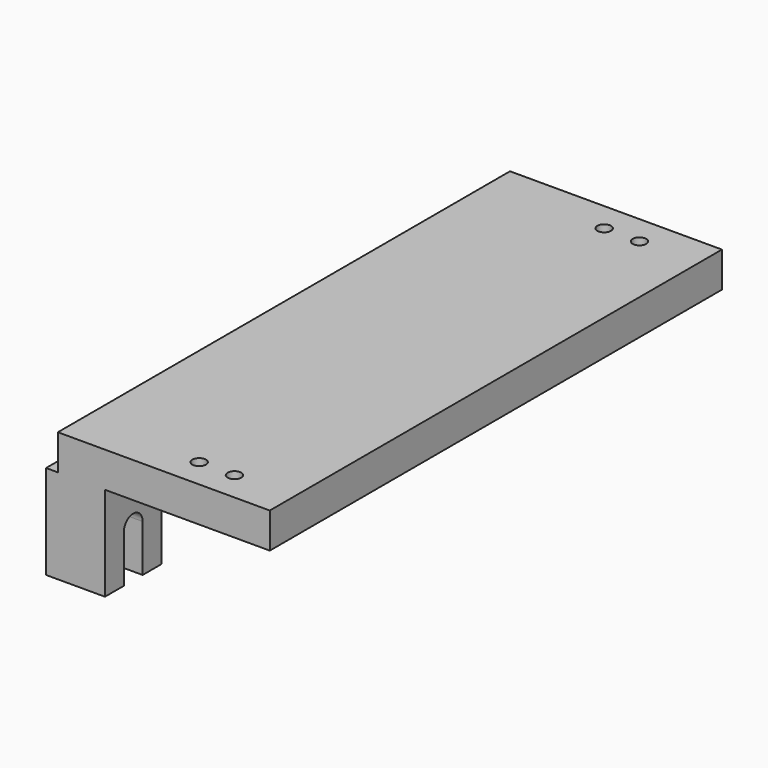
from build123d import *

# Parameters (mm, degrees)
SKETCH011_W              = 240
SKETCH011_H              = 15
PAD007_DEPTH             = 90
SKETCH012_R              = 2.9
HOLE004_DEPTH            = 270.001
PAD008_DEPTH             = 25
CLONE007_PLACEMENT_ANGLE = 180


with BuildPart() as part:
    # Sketch011 → Pad007 (new body)
    with BuildSketch(Plane.YZ.offset(5)):
        with Locations((95, 262.5)):
            Rectangle(SKETCH011_W, SKETCH011_H)
    extrude(amount=PAD007_DEPTH)

    # Sketch012 → Hole004 (cut, through all)
    with BuildSketch(Plane.XY):
        with Locations((55, 202.5)):
            Circle(SKETCH012_R)
        with Locations((70, 202.5)):
            Circle(SKETCH012_R)
        with Locations((55, -12.5)):
            Circle(SKETCH012_R)
        with Locations((70, -12.5)):
            Circle(SKETCH012_R)
    extrude(amount=HOLE004_DEPTH, mode=Mode.SUBTRACT)

    # Sketch013 → Pad008 (join)
    with BuildSketch(Plane.YZ):
        with BuildLine():
            Line((-25, 270), (-25, 310))
            Line((-15, 310), (-25, 310))
            Line((-15, 310), (-15, 290))
            ThreePointArc((-15, 290), (-10, 285), (-5, 290))
            Line((-5, 310), (-5, 290))
            Line((-5, 310), (5, 310))
            Line((5, 270), (5, 310))
            Line((-25, 270), (5, 270))
        make_face()
        with BuildLine():
            Line((185, 270), (185, 310))
            Line((195, 310), (185, 310))
            Line((195, 310), (195, 290))
            ThreePointArc((195, 290), (200, 285), (205, 290))
            Line((205, 310), (205, 290))
            Line((205, 310), (215, 310))
            Line((215, 270), (215, 310))
            Line((185, 270), (215, 270))
        make_face()
    extrude(amount=PAD008_DEPTH)


with BuildPart() as part_1:
    # Clone007 placement: moved
    add(part.part.moved(Location((0, 190, 260))).rotate(Axis((0, 190, 260), (1, 0, 0)), CLONE007_PLACEMENT_ANGLE))


solid = part_1.part
